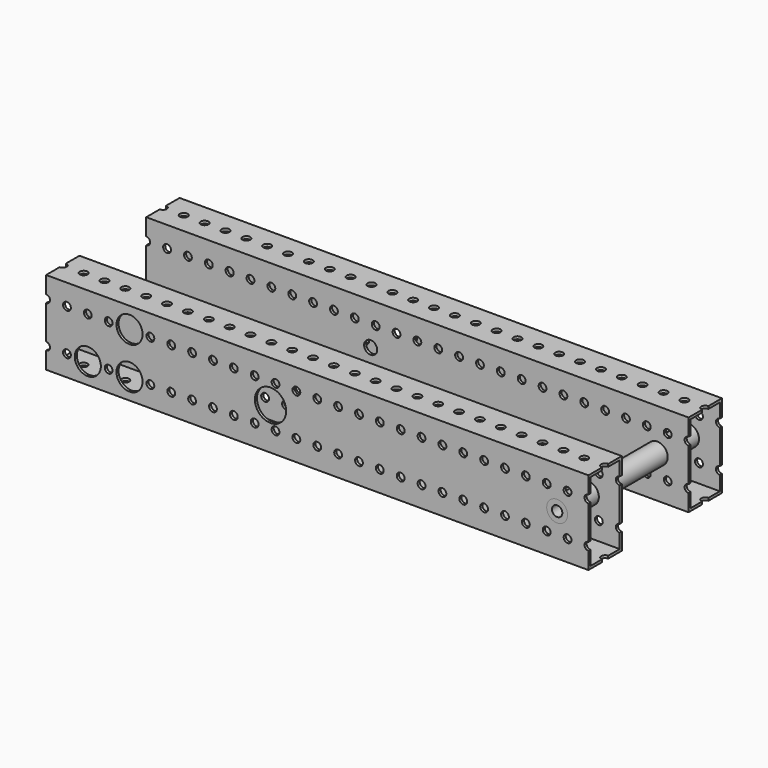
from build123d import *

# Parameters (mm, degrees)
F0_W      = 330.2
F0_H      = 50.8
F1_DEPTH  = 25.4
F2_W      = 22.225
F2_H      = 47.625
F3_DEPTH  = 330.201
F4_R      = 2.38125
F5_DEPTH  = 25.401
F6_R      = 2.38125
F7_DEPTH  = 50.801
F8_R      = 6.35
F8_R_2    = 3.96875
F9_DEPTH  = 25.401
F10_R     = 9.525
F10_R_2   = 3.96875
F11_DEPTH = 12.7
F13_R     = 2.4892
F14_DEPTH = 25.401
F15_R     = 7.9375
F15_R_2   = 2.4892
F16_DEPTH = 12.7
F18_R     = 6.35
F19_DEPTH = 50.8
F20_R     = 3.175
F21_DEPTH = 101.601


with BuildPart() as f1:
    # F0 (on Front) → F1 (new body)
    with BuildSketch(Plane.XZ):
        with Locations((-165.1, 25.4)):
            Rectangle(F0_W, F0_H)
    extrude(amount=F1_DEPTH)

    # F2 (on face) → F3 (cut, through all)
    with BuildSketch(Plane.YZ):
        with Locations((-12.7, 25.4)):
            Rectangle(F2_W, F2_H)
    extrude(amount=-F3_DEPTH, mode=Mode.SUBTRACT)

    # F4 (on face) → F5 (cut, through all)
    with BuildSketch(Plane.XZ.offset(25.4)):
        with Locations((0, 38.1)):
            Circle(F4_R)
        with Locations((0, 12.7)):
            Circle(F4_R)
        with Locations((-12.7, 38.1)):
            Circle(F4_R)
        with Locations((-12.7, 12.7)):
            Circle(F4_R)
        with Locations((-25.4, 38.1)):
            Circle(F4_R)
        with Locations((-25.4, 12.7)):
            Circle(F4_R)
        with Locations((-38.1, 38.1)):
            Circle(F4_R)
        with Locations((-38.1, 12.7)):
            Circle(F4_R)
        with Locations((-50.8, 38.1)):
            Circle(F4_R)
        with Locations((-50.8, 12.7)):
            Circle(F4_R)
        with Locations((-63.5, 38.1)):
            Circle(F4_R)
        with Locations((-63.5, 12.7)):
            Circle(F4_R)
        with Locations((-76.2, 38.1)):
            Circle(F4_R)
        with Locations((-76.2, 12.7)):
            Circle(F4_R)
        with Locations((-88.9, 38.1)):
            Circle(F4_R)
        with Locations((-88.9, 12.7)):
            Circle(F4_R)
        with Locations((-101.6, 38.1)):
            Circle(F4_R)
        with Locations((-101.6, 12.7)):
            Circle(F4_R)
        with Locations((-114.3, 38.1)):
            Circle(F4_R)
        with Locations((-114.3, 12.7)):
            Circle(F4_R)
        with Locations((-127, 38.1)):
            Circle(F4_R)
        with Locations((-127, 12.7)):
            Circle(F4_R)
        with Locations((-139.7, 38.1)):
            Circle(F4_R)
        with Locations((-139.7, 12.7)):
            Circle(F4_R)
        with Locations((-152.4, 38.1)):
            Circle(F4_R)
        with Locations((-152.4, 12.7)):
            Circle(F4_R)
        with Locations((-165.1, 38.1)):
            Circle(F4_R)
        with Locations((-165.1, 12.7)):
            Circle(F4_R)
        with Locations((-177.8, 38.1)):
            Circle(F4_R)
        with Locations((-177.8, 12.7)):
            Circle(F4_R)
        with Locations((-190.5, 38.1)):
            Circle(F4_R)
        with Locations((-190.5, 12.7)):
            Circle(F4_R)
        with Locations((-203.2, 38.1)):
            Circle(F4_R)
        with Locations((-203.2, 12.7)):
            Circle(F4_R)
        with Locations((-215.9, 38.1)):
            Circle(F4_R)
        with Locations((-215.9, 12.7)):
            Circle(F4_R)
        with Locations((-228.6, 38.1)):
            Circle(F4_R)
        with Locations((-228.6, 12.7)):
            Circle(F4_R)
        with Locations((-241.3, 38.1)):
            Circle(F4_R)
        with Locations((-241.3, 12.7)):
            Circle(F4_R)
        with Locations((-254, 38.1)):
            Circle(F4_R)
        with Locations((-254, 12.7)):
            Circle(F4_R)
        with Locations((-266.7, 38.1)):
            Circle(F4_R)
        with Locations((-266.7, 12.7)):
            Circle(F4_R)
        with Locations((-279.4, 38.1)):
            Circle(F4_R)
        with Locations((-279.4, 12.7)):
            Circle(F4_R)
        with Locations((-292.1, 38.1)):
            Circle(F4_R)
        with Locations((-292.1, 12.7)):
            Circle(F4_R)
        with Locations((-304.8, 38.1)):
            Circle(F4_R)
        with Locations((-304.8, 12.7)):
            Circle(F4_R)
        with Locations((-317.5, 38.1)):
            Circle(F4_R)
        with Locations((-317.5, 12.7)):
            Circle(F4_R)
        with Locations((-330.2, 38.1)):
            Circle(F4_R)
        with Locations((-330.2, 12.7)):
            Circle(F4_R)
        with Locations((-342.9, 38.1)):
            Circle(F4_R)
        with Locations((-342.9, 12.7)):
            Circle(F4_R)
        with Locations((-355.6, 38.1)):
            Circle(F4_R)
        with Locations((-355.6, 12.7)):
            Circle(F4_R)
        with Locations((-368.3, 38.1)):
            Circle(F4_R)
        with Locations((-368.3, 12.7)):
            Circle(F4_R)
        with Locations((-381, 38.1)):
            Circle(F4_R)
        with Locations((-381, 12.7)):
            Circle(F4_R)
        with Locations((-393.7, 38.1)):
            Circle(F4_R)
        with Locations((-393.7, 12.7)):
            Circle(F4_R)
        with Locations((-406.4, 38.1)):
            Circle(F4_R)
        with Locations((-406.4, 12.7)):
            Circle(F4_R)
        with Locations((-419.1, 38.1)):
            Circle(F4_R)
        with Locations((-419.1, 12.7)):
            Circle(F4_R)
        with Locations((-431.8, 38.1)):
            Circle(F4_R)
        with Locations((-431.8, 12.7)):
            Circle(F4_R)
        with Locations((-444.5, 38.1)):
            Circle(F4_R)
        with Locations((-444.5, 12.7)):
            Circle(F4_R)
        with Locations((-457.2, 38.1)):
            Circle(F4_R)
        with Locations((-457.2, 12.7)):
            Circle(F4_R)
        with Locations((-469.9, 38.1)):
            Circle(F4_R)
        with Locations((-469.9, 12.7)):
            Circle(F4_R)
        with Locations((-482.6, 38.1)):
            Circle(F4_R)
        with Locations((-482.6, 12.7)):
            Circle(F4_R)
        with Locations((-495.3, 38.1)):
            Circle(F4_R)
        with Locations((-495.3, 12.7)):
            Circle(F4_R)
        with Locations((-508, 38.1)):
            Circle(F4_R)
        with Locations((-508, 12.7)):
            Circle(F4_R)
        with Locations((-520.7, 38.1)):
            Circle(F4_R)
        with Locations((-520.7, 12.7)):
            Circle(F4_R)
        with Locations((-533.4, 38.1)):
            Circle(F4_R)
        with Locations((-533.4, 12.7)):
            Circle(F4_R)
        with Locations((-546.1, 38.1)):
            Circle(F4_R)
        with Locations((-546.1, 12.7)):
            Circle(F4_R)
        with Locations((-558.8, 38.1)):
            Circle(F4_R)
        with Locations((-558.8, 12.7)):
            Circle(F4_R)
        with Locations((-571.5, 38.1)):
            Circle(F4_R)
        with Locations((-571.5, 12.7)):
            Circle(F4_R)
        with Locations((-584.2, 38.1)):
            Circle(F4_R)
        with Locations((-584.2, 12.7)):
            Circle(F4_R)
        with Locations((-596.9, 38.1)):
            Circle(F4_R)
        with Locations((-596.9, 12.7)):
            Circle(F4_R)
        with Locations((-609.6, 38.1)):
            Circle(F4_R)
        with Locations((-609.6, 12.7)):
            Circle(F4_R)
        with Locations((-622.3, 38.1)):
            Circle(F4_R)
        with Locations((-622.3, 12.7)):
            Circle(F4_R)
        with Locations((-635, 38.1)):
            Circle(F4_R)
        with Locations((-635, 12.7)):
            Circle(F4_R)
        with Locations((-647.7, 38.1)):
            Circle(F4_R)
        with Locations((-647.7, 12.7)):
            Circle(F4_R)
        with Locations((-660.4, 38.1)):
            Circle(F4_R)
        with Locations((-660.4, 12.7)):
            Circle(F4_R)
        with Locations((-673.1, 38.1)):
            Circle(F4_R)
        with Locations((-673.1, 12.7)):
            Circle(F4_R)
        with Locations((-685.8, 38.1)):
            Circle(F4_R)
        with Locations((-685.8, 12.7)):
            Circle(F4_R)
        with Locations((-698.5, 38.1)):
            Circle(F4_R)
        with Locations((-698.5, 12.7)):
            Circle(F4_R)
        with Locations((-711.2, 38.1)):
            Circle(F4_R)
        with Locations((-711.2, 12.7)):
            Circle(F4_R)
        with Locations((-723.9, 38.1)):
            Circle(F4_R)
        with Locations((-723.9, 12.7)):
            Circle(F4_R)
        with Locations((-736.6, 38.1)):
            Circle(F4_R)
        with Locations((-736.6, 12.7)):
            Circle(F4_R)
        with Locations((-749.3, 38.1)):
            Circle(F4_R)
        with Locations((-749.3, 12.7)):
            Circle(F4_R)
        with Locations((-762, 38.1)):
            Circle(F4_R)
        with Locations((-762, 12.7)):
            Circle(F4_R)
        with Locations((-774.7, 38.1)):
            Circle(F4_R)
        with Locations((-774.7, 12.7)):
            Circle(F4_R)
        with Locations((-787.4, 38.1)):
            Circle(F4_R)
        with Locations((-787.4, 12.7)):
            Circle(F4_R)
        with Locations((-800.1, 38.1)):
            Circle(F4_R)
        with Locations((-800.1, 12.7)):
            Circle(F4_R)
        with Locations((-812.8, 38.1)):
            Circle(F4_R)
        with Locations((-812.8, 12.7)):
            Circle(F4_R)
        with Locations((-825.5, 38.1)):
            Circle(F4_R)
        with Locations((-825.5, 12.7)):
            Circle(F4_R)
        with Locations((-838.2, 38.1)):
            Circle(F4_R)
        with Locations((-838.2, 12.7)):
            Circle(F4_R)
        with Locations((-850.9, 38.1)):
            Circle(F4_R)
        with Locations((-850.9, 12.7)):
            Circle(F4_R)
        with Locations((-863.6, 38.1)):
            Circle(F4_R)
        with Locations((-863.6, 12.7)):
            Circle(F4_R)
        with Locations((-876.3, 38.1)):
            Circle(F4_R)
        with Locations((-876.3, 12.7)):
            Circle(F4_R)
        with Locations((-889, 38.1)):
            Circle(F4_R)
        with Locations((-889, 12.7)):
            Circle(F4_R)
        with Locations((-901.7, 38.1)):
            Circle(F4_R)
        with Locations((-901.7, 12.7)):
            Circle(F4_R)
        with Locations((-914.4, 38.1)):
            Circle(F4_R)
        with Locations((-914.4, 12.7)):
            Circle(F4_R)
        with Locations((-927.1, 38.1)):
            Circle(F4_R)
        with Locations((-927.1, 12.7)):
            Circle(F4_R)
        with Locations((-939.8, 38.1)):
            Circle(F4_R)
        with Locations((-939.8, 12.7)):
            Circle(F4_R)
        with Locations((-952.5, 38.1)):
            Circle(F4_R)
        with Locations((-952.5, 12.7)):
            Circle(F4_R)
        with Locations((-965.2, 38.1)):
            Circle(F4_R)
        with Locations((-965.2, 12.7)):
            Circle(F4_R)
        with Locations((-977.9, 38.1)):
            Circle(F4_R)
        with Locations((-977.9, 12.7)):
            Circle(F4_R)
        with Locations((-990.6, 38.1)):
            Circle(F4_R)
        with Locations((-990.6, 12.7)):
            Circle(F4_R)
        with Locations((-1003.3, 38.1)):
            Circle(F4_R)
        with Locations((-1003.3, 12.7)):
            Circle(F4_R)
        with Locations((-1016, 38.1)):
            Circle(F4_R)
        with Locations((-1016, 12.7)):
            Circle(F4_R)
        with Locations((-1028.7, 38.1)):
            Circle(F4_R)
        with Locations((-1028.7, 12.7)):
            Circle(F4_R)
        with Locations((-1041.4, 38.1)):
            Circle(F4_R)
        with Locations((-1041.4, 12.7)):
            Circle(F4_R)
        with Locations((-1054.1, 38.1)):
            Circle(F4_R)
        with Locations((-1054.1, 12.7)):
            Circle(F4_R)
        with Locations((-1066.8, 38.1)):
            Circle(F4_R)
        with Locations((-1066.8, 12.7)):
            Circle(F4_R)
        with Locations((-1079.5, 38.1)):
            Circle(F4_R)
        with Locations((-1079.5, 12.7)):
            Circle(F4_R)
        with Locations((-1092.2, 38.1)):
            Circle(F4_R)
        with Locations((-1092.2, 12.7)):
            Circle(F4_R)
        with Locations((-1104.9, 38.1)):
            Circle(F4_R)
        with Locations((-1104.9, 12.7)):
            Circle(F4_R)
        with Locations((-1117.6, 38.1)):
            Circle(F4_R)
        with Locations((-1117.6, 12.7)):
            Circle(F4_R)
        with Locations((-1130.3, 38.1)):
            Circle(F4_R)
        with Locations((-1130.3, 12.7)):
            Circle(F4_R)
        with Locations((-1143, 38.1)):
            Circle(F4_R)
        with Locations((-1143, 12.7)):
            Circle(F4_R)
        with Locations((-1155.7, 38.1)):
            Circle(F4_R)
        with Locations((-1155.7, 12.7)):
            Circle(F4_R)
        with Locations((-1168.4, 38.1)):
            Circle(F4_R)
        with Locations((-1168.4, 12.7)):
            Circle(F4_R)
        with Locations((-1181.1, 38.1)):
            Circle(F4_R)
        with Locations((-1181.1, 12.7)):
            Circle(F4_R)
        with Locations((-1193.8, 38.1)):
            Circle(F4_R)
        with Locations((-1193.8, 12.7)):
            Circle(F4_R)
        with Locations((-1206.5, 38.1)):
            Circle(F4_R)
        with Locations((-1206.5, 12.7)):
            Circle(F4_R)
        with Locations((-1219.2, 38.1)):
            Circle(F4_R)
        with Locations((-1219.2, 12.7)):
            Circle(F4_R)
        with Locations((-1231.9, 38.1)):
            Circle(F4_R)
        with Locations((-1231.9, 12.7)):
            Circle(F4_R)
        with Locations((-1244.6, 38.1)):
            Circle(F4_R)
        with Locations((-1244.6, 12.7)):
            Circle(F4_R)
        with Locations((-1257.3, 38.1)):
            Circle(F4_R)
        with Locations((-1257.3, 12.7)):
            Circle(F4_R)
    extrude(amount=-F5_DEPTH, mode=Mode.SUBTRACT)

    # F6 (on face) → F7 (cut, through all)
    with BuildSketch(Plane.XY.offset(50.8)):
        with Locations((0, -12.7)):
            Circle(F6_R)
        with Locations((-12.7, -12.7)):
            Circle(F6_R)
        with Locations((-25.4, -12.7)):
            Circle(F6_R)
        with Locations((-38.1, -12.7)):
            Circle(F6_R)
        with Locations((-50.8, -12.7)):
            Circle(F6_R)
        with Locations((-63.5, -12.7)):
            Circle(F6_R)
        with Locations((-76.2, -12.7)):
            Circle(F6_R)
        with Locations((-88.9, -12.7)):
            Circle(F6_R)
        with Locations((-101.6, -12.7)):
            Circle(F6_R)
        with Locations((-114.3, -12.7)):
            Circle(F6_R)
        with Locations((-127, -12.7)):
            Circle(F6_R)
        with Locations((-139.7, -12.7)):
            Circle(F6_R)
        with Locations((-152.4, -12.7)):
            Circle(F6_R)
        with Locations((-165.1, -12.7)):
            Circle(F6_R)
        with Locations((-177.8, -12.7)):
            Circle(F6_R)
        with Locations((-190.5, -12.7)):
            Circle(F6_R)
        with Locations((-203.2, -12.7)):
            Circle(F6_R)
        with Locations((-215.9, -12.7)):
            Circle(F6_R)
        with Locations((-228.6, -12.7)):
            Circle(F6_R)
        with Locations((-241.3, -12.7)):
            Circle(F6_R)
        with Locations((-254, -12.7)):
            Circle(F6_R)
        with Locations((-266.7, -12.7)):
            Circle(F6_R)
        with Locations((-279.4, -12.7)):
            Circle(F6_R)
        with Locations((-292.1, -12.7)):
            Circle(F6_R)
        with Locations((-304.8, -12.7)):
            Circle(F6_R)
        with Locations((-317.5, -12.7)):
            Circle(F6_R)
        with Locations((-330.2, -12.7)):
            Circle(F6_R)
        with Locations((-342.9, -12.7)):
            Circle(F6_R)
        with Locations((-355.6, -12.7)):
            Circle(F6_R)
        with Locations((-368.3, -12.7)):
            Circle(F6_R)
        with Locations((-381, -12.7)):
            Circle(F6_R)
        with Locations((-393.7, -12.7)):
            Circle(F6_R)
        with Locations((-406.4, -12.7)):
            Circle(F6_R)
        with Locations((-419.1, -12.7)):
            Circle(F6_R)
        with Locations((-431.8, -12.7)):
            Circle(F6_R)
        with Locations((-444.5, -12.7)):
            Circle(F6_R)
        with Locations((-457.2, -12.7)):
            Circle(F6_R)
        with Locations((-469.9, -12.7)):
            Circle(F6_R)
        with Locations((-482.6, -12.7)):
            Circle(F6_R)
        with Locations((-495.3, -12.7)):
            Circle(F6_R)
        with Locations((-508, -12.7)):
            Circle(F6_R)
        with Locations((-520.7, -12.7)):
            Circle(F6_R)
        with Locations((-533.4, -12.7)):
            Circle(F6_R)
        with Locations((-546.1, -12.7)):
            Circle(F6_R)
        with Locations((-558.8, -12.7)):
            Circle(F6_R)
        with Locations((-571.5, -12.7)):
            Circle(F6_R)
        with Locations((-584.2, -12.7)):
            Circle(F6_R)
        with Locations((-596.9, -12.7)):
            Circle(F6_R)
        with Locations((-609.6, -12.7)):
            Circle(F6_R)
        with Locations((-622.3, -12.7)):
            Circle(F6_R)
        with Locations((-635, -12.7)):
            Circle(F6_R)
        with Locations((-647.7, -12.7)):
            Circle(F6_R)
        with Locations((-660.4, -12.7)):
            Circle(F6_R)
        with Locations((-673.1, -12.7)):
            Circle(F6_R)
        with Locations((-685.8, -12.7)):
            Circle(F6_R)
        with Locations((-698.5, -12.7)):
            Circle(F6_R)
        with Locations((-711.2, -12.7)):
            Circle(F6_R)
        with Locations((-723.9, -12.7)):
            Circle(F6_R)
        with Locations((-736.6, -12.7)):
            Circle(F6_R)
        with Locations((-749.3, -12.7)):
            Circle(F6_R)
        with Locations((-762, -12.7)):
            Circle(F6_R)
        with Locations((-774.7, -12.7)):
            Circle(F6_R)
        with Locations((-787.4, -12.7)):
            Circle(F6_R)
        with Locations((-800.1, -12.7)):
            Circle(F6_R)
        with Locations((-812.8, -12.7)):
            Circle(F6_R)
        with Locations((-825.5, -12.7)):
            Circle(F6_R)
        with Locations((-838.2, -12.7)):
            Circle(F6_R)
        with Locations((-850.9, -12.7)):
            Circle(F6_R)
        with Locations((-863.6, -12.7)):
            Circle(F6_R)
        with Locations((-876.3, -12.7)):
            Circle(F6_R)
        with Locations((-889, -12.7)):
            Circle(F6_R)
        with Locations((-901.7, -12.7)):
            Circle(F6_R)
        with Locations((-914.4, -12.7)):
            Circle(F6_R)
        with Locations((-927.1, -12.7)):
            Circle(F6_R)
        with Locations((-939.8, -12.7)):
            Circle(F6_R)
        with Locations((-952.5, -12.7)):
            Circle(F6_R)
        with Locations((-965.2, -12.7)):
            Circle(F6_R)
        with Locations((-977.9, -12.7)):
            Circle(F6_R)
        with Locations((-990.6, -12.7)):
            Circle(F6_R)
        with Locations((-1003.3, -12.7)):
            Circle(F6_R)
        with Locations((-1016, -12.7)):
            Circle(F6_R)
        with Locations((-1028.7, -12.7)):
            Circle(F6_R)
        with Locations((-1041.4, -12.7)):
            Circle(F6_R)
        with Locations((-1054.1, -12.7)):
            Circle(F6_R)
        with Locations((-1066.8, -12.7)):
            Circle(F6_R)
        with Locations((-1079.5, -12.7)):
            Circle(F6_R)
        with Locations((-1092.2, -12.7)):
            Circle(F6_R)
        with Locations((-1104.9, -12.7)):
            Circle(F6_R)
        with Locations((-1117.6, -12.7)):
            Circle(F6_R)
        with Locations((-1130.3, -12.7)):
            Circle(F6_R)
        with Locations((-1143, -12.7)):
            Circle(F6_R)
        with Locations((-1155.7, -12.7)):
            Circle(F6_R)
        with Locations((-1168.4, -12.7)):
            Circle(F6_R)
        with Locations((-1181.1, -12.7)):
            Circle(F6_R)
        with Locations((-1193.8, -12.7)):
            Circle(F6_R)
        with Locations((-1206.5, -12.7)):
            Circle(F6_R)
        with Locations((-1219.2, -12.7)):
            Circle(F6_R)
        with Locations((-1231.9, -12.7)):
            Circle(F6_R)
        with Locations((-1244.6, -12.7)):
            Circle(F6_R)
        with Locations((-1257.3, -12.7)):
            Circle(F6_R)
    extrude(amount=-F7_DEPTH, mode=Mode.SUBTRACT)

    # F8 (on face) → F9 (cut, through all)
    with BuildSketch(Plane.XZ.offset(25.4)):
        with Locations((-19.05, 25.4)):
            Circle(F8_R)
        with Locations((-193.5448504, 25.4)):
            Circle(F8_R_2)
    extrude(amount=-F9_DEPTH, mode=Mode.SUBTRACT)

    # F10 (on face) → F11 (cut)
    with BuildSketch(Plane.XZ.offset(25.4)):
        with Locations((-193.5448504, 25.4)):
            Circle(F10_R)
        with Locations((-193.5448504, 25.4)):
            Circle(F10_R_2, mode=Mode.SUBTRACT)
    extrude(amount=-F11_DEPTH, mode=Mode.SUBTRACT)

    # F13 (on face) → F14 (cut, through all)
    with BuildSketch(Plane.XZ.offset(25.4)):
        with Locations((-304.8, 12.7)):
            Circle(F13_R)
        with Locations((-279.4, 38.1)):
            Circle(F13_R)
        with Locations((-279.4, 12.7)):
            Circle(F13_R)
    extrude(amount=-F14_DEPTH, mode=Mode.SUBTRACT)

    # F15 (on face) → F16 (cut)
    with BuildSketch(Plane.XZ.offset(25.4)):
        with Locations((-304.8, 12.7)):
            Circle(F15_R)
        with Locations((-304.8, 12.7)):
            Circle(F15_R_2, mode=Mode.SUBTRACT)
        with Locations((-279.4, 12.7)):
            Circle(F15_R)
        with Locations((-279.4, 12.7)):
            Circle(F15_R_2, mode=Mode.SUBTRACT)
        with Locations((-279.4, 38.1)):
            Circle(F15_R)
        with Locations((-279.4, 38.1)):
            Circle(F15_R_2, mode=Mode.SUBTRACT)
    extrude(amount=-F16_DEPTH, mode=Mode.SUBTRACT)


with BuildPart() as f17_1:
    # F17: instance of F1
    add(f1.part.mirror(Plane.XZ.offset(-25.4)))


with BuildPart() as f19:
    # F18 (on offset) → F19 (new body, symmetric)
    with BuildSketch(Plane.XZ.offset(-25.4)):
        with Locations((-19.05, 25.4)):
            Circle(F18_R)
    extrude(amount=F19_DEPTH, both=True)

    # F20 (on face) → F21 (cut, through all)
    with BuildSketch(Plane.XZ.offset(25.4)):
        with Locations((-19.05, 25.4)):
            Circle(F20_R)
    extrude(amount=-F21_DEPTH, mode=Mode.SUBTRACT)


solid = Compound([f1.part, f17_1.part, f19.part])
